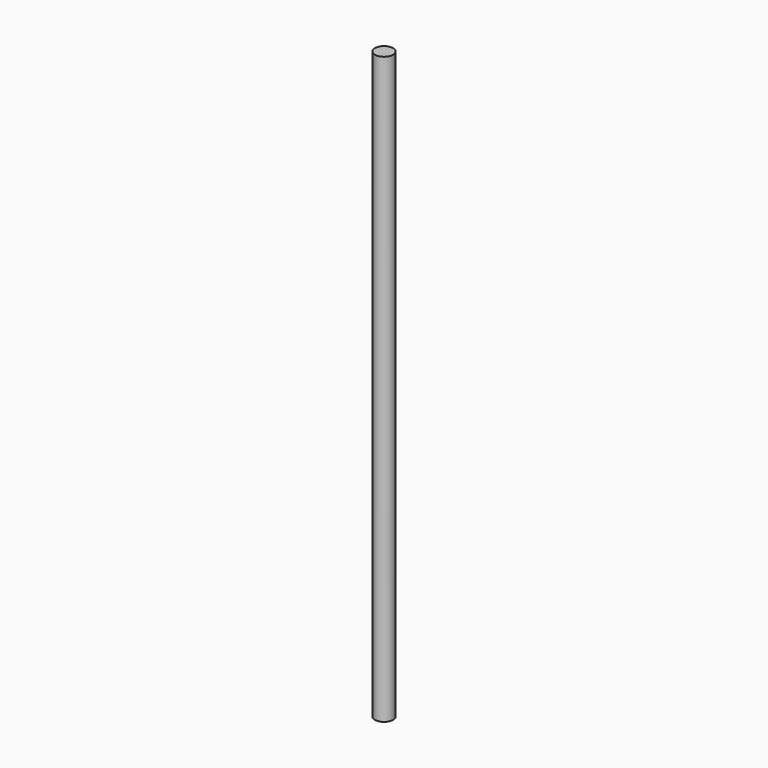
from build123d import *

# Parameters (mm, degrees)
F0_R     = 9.422662
F1_DEPTH = 254
F2_DEPTH = 609.6
F3_DEPTH = 609.6


with BuildPart() as f1:
    # F0 (on Top) → F1 (new body)
    with BuildSketch(Plane.XY):
        Circle(F0_R)
    extrude(amount=F1_DEPTH)

    # F0 (on Top) → F2 (join)
    with BuildSketch(Plane.XY):
        Circle(F0_R)
    extrude(amount=F2_DEPTH)

    # F0 (on Top) → F3 (join)
    with BuildSketch(Plane.XY):
        Circle(F0_R)
    extrude(amount=F3_DEPTH)


solid = f1.part
